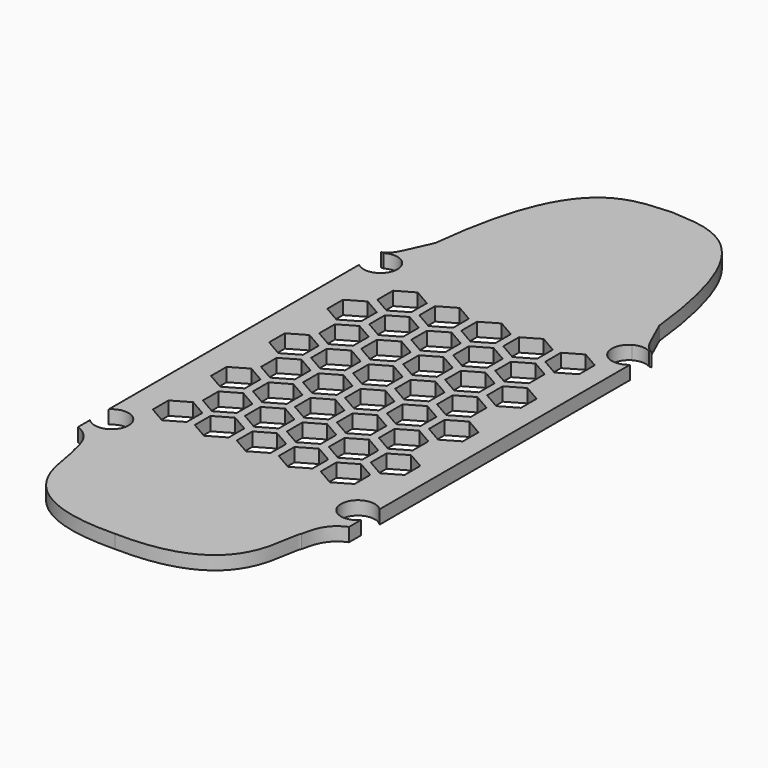
from build123d import *

# Parameters (mm, degrees)
F1_DEPTH = 2
F3_DEPTH = 2.001


with BuildPart() as f1:
    # F0 (on Top) → F1 (new body)
    with BuildSketch(Plane.XY):
        with BuildLine():
            add(Edge.make_bspline(
                [(20, -27.948286), (17.312383, -29.103272), (17.105319, -31.422403), (16.79297, -32.69393)],
                knots=[0, 0, 0, 0, 5.727668, 5.727668, 5.727668, 5.727668], degree=3))
            Line((20, -27.948286), (-20, -27.948286))
            add(Edge.make_bspline(
                [(-20, -27.948286), (-17.312383, -29.103272), (-17.105319, -31.422403), (-16.79297, -32.69393)],
                knots=[0, 0, 0, 0, 5.727668, 5.727668, 5.727668, 5.727668], degree=3))
            add(Edge.make_bspline(
                [(-16.79297, -32.69393), (-15.586394, -35.164598), (-17.737173, -46.525843), (0, -46.139471)],
                knots=[0, 0, 0, 0, 21.512471, 21.512471, 21.512471, 21.512471], degree=3))
            add(Edge.make_bspline(
                [(16.79297, -32.69393), (15.586394, -35.164598), (17.737173, -46.525843), (0, -46.139471)],
                knots=[0, 0, 0, 0, 21.512471, 21.512471, 21.512471, 21.512471], degree=3))
        make_face()
        with BuildLine():
            Line((19.606833, 27.948286), (20, 27.948286))
            add(Edge.make_bspline(
                [(16.526192, 33.676597), (18.398025, 29.781786), (18.398024, 28.673349), (20, 27.948286)],
                knots=[0, 0, 0, 0, 6.699319, 6.699319, 6.699319, 6.699319], degree=3))
            add(Edge.make_bspline(
                [(0, 56.710303), (5.756883, 56.292412), (13.975367, 57.12819), (16.526192, 33.676597)],
                knots=[0, 0, 0, 0, 28.349015, 28.349015, 28.349015, 28.349015], degree=3))
            add(Edge.make_bspline(
                [(0, 56.710303), (-5.756883, 56.292412), (-13.975367, 57.12819), (-16.526192, 33.676597)],
                knots=[0, 0, 0, 0, 28.349015, 28.349015, 28.349015, 28.349015], degree=3))
            add(Edge.make_bspline(
                [(-16.526192, 33.676597), (-18.398025, 29.781786), (-18.398024, 28.673349), (-20, 27.948286)],
                knots=[0, 0, 0, 0, 6.699319, 6.699319, 6.699319, 6.699319], degree=3))
            Line((-20, 27.948286), (-19.606833, 27.948286))
            ThreePointArc((-19.606833, 27.948286), (-18.339547, 28.293295), (-17.072262, 27.948286))
            Line((-17.072262, 27.948286), (17.072262, 27.948286))
            ThreePointArc((17.072262, 27.948286), (18.339547, 28.293295), (19.606833, 27.948286))
        make_face()
        with BuildLine():
            Line((20, -22.316148), (20, 23.924366))
            ThreePointArc((20, 23.924366), (16.318006, 24.322455), (17.072262, 27.948286))
            Line((17.072262, 27.948286), (-17.072262, 27.948286))
            ThreePointArc((-17.072262, 27.948286), (-16.1695, 27.034622), (-15.839547, 25.793295))
            ThreePointArc((-15.839547, 25.793295), (-17.315128, 23.51282), (-20, 23.924366))
            Line((-20, 23.924366), (-20, -22.316148))
            ThreePointArc((-20, -22.316148), (-17.261587, -21.720741), (-15.690904, -24.041596))
            ThreePointArc((-15.690904, -24.041596), (-17.261587, -26.362452), (-20, -25.767044))
            Line((-20, -25.767044), (-20, -27.948286))
            Line((-20, -27.948286), (20, -27.948286))
            Line((20, -27.948286), (20, -25.767044))
            ThreePointArc((20, -25.767044), (15.690904, -24.041596), (20, -22.316148))
        make_face()
    extrude(amount=-F1_DEPTH)

    # F2 (on face) → F3 (cut, through all)
    with BuildSketch(Plane(origin=(0, 0, -2), x_dir=(1, 0, 0), z_dir=(0, 0, -1))):
        Polygon((-11, 16.284945), (-11, 19.171697), (-13.5, 20.615072), (-16, 19.171697), (-16, 16.284945), (-13.5, 14.84157), align=None)
        Polygon((-7.9, 10.915588), (-7.9, 13.802339), (-10.4, 15.245715), (-12.9, 13.802339), (-12.9, 10.915588), (-10.4, 9.472212), align=None)
        Polygon((-11, 5.546945), (-11, 8.433697), (-13.5, 9.877072), (-16, 8.433697), (-16, 5.546945), (-13.5, 4.10357), align=None)
        Polygon((-10.4, -1.265788), (-7.9, 0.177588), (-7.9, 3.064339), (-10.4, 4.507715), (-12.9, 3.064339), (-12.9, 0.177588), align=None)
        Polygon((-11, -5.191055), (-11, -2.304303), (-13.5, -0.860928), (-16, -2.304303), (-16, -5.191055), (-13.5, -6.63443), align=None)
        Polygon((-10.4, -12.003788), (-7.9, -10.560412), (-7.9, -7.673661), (-10.4, -6.230285), (-12.9, -7.673661), (-12.9, -10.560412), align=None)
        Polygon((-11, -15.929055), (-11, -13.042303), (-13.5, -11.598928), (-16, -13.042303), (-16, -15.929055), (-13.5, -17.37243), align=None)
        Polygon((-10.4, -22.741788), (-7.9, -21.298412), (-7.9, -18.411661), (-10.4, -16.968285), (-12.9, -18.411661), (-12.9, -21.298412), align=None)
        Polygon((-4.8, 16.284945), (-4.8, 19.171697), (-7.3, 20.615072), (-9.8, 19.171697), (-9.8, 16.284945), (-7.3, 14.84157), align=None)
        Polygon((-4.2, 9.472212), (-1.7, 10.915588), (-1.7, 13.802339), (-4.2, 15.245715), (-6.7, 13.802339), (-6.7, 10.915588), align=None)
        Polygon((-4.8, 5.546945), (-4.8, 8.433697), (-7.3, 9.877072), (-9.8, 8.433697), (-9.8, 5.546945), (-7.3, 4.10357), align=None)
        Polygon((-4.2, -1.265788), (-1.7, 0.177588), (-1.7, 3.064339), (-4.2, 4.507715), (-6.7, 3.064339), (-6.7, 0.177588), align=None)
        Polygon((-4.8, -5.191055), (-4.8, -2.304303), (-7.3, -0.860928), (-9.8, -2.304303), (-9.8, -5.191055), (-7.3, -6.63443), align=None)
        Polygon((-4.2, -12.003788), (-1.7, -10.560412), (-1.7, -7.673661), (-4.2, -6.230285), (-6.7, -7.673661), (-6.7, -10.560412), align=None)
        Polygon((-4.8, -15.929055), (-4.8, -13.042303), (-7.3, -11.598928), (-9.8, -13.042303), (-9.8, -15.929055), (-7.3, -17.37243), align=None)
        Polygon((-4.2, -22.741788), (-1.7, -21.298412), (-1.7, -18.411661), (-4.2, -16.968285), (-6.7, -18.411661), (-6.7, -21.298412), align=None)
        Polygon((1.4, 16.284945), (1.4, 19.171697), (-1.1, 20.615072), (-3.6, 19.171697), (-3.6, 16.284945), (-1.1, 14.84157), align=None)
        Polygon((2, 9.472212), (4.5, 10.915588), (4.5, 13.802339), (2, 15.245715), (-0.5, 13.802339), (-0.5, 10.915588), align=None)
        Polygon((1.4, 5.546945), (1.4, 8.433697), (-1.1, 9.877072), (-3.6, 8.433697), (-3.6, 5.546945), (-1.1, 4.10357), align=None)
        Polygon((2, -1.265788), (4.5, 0.177588), (4.5, 3.064339), (2, 4.507715), (-0.5, 3.064339), (-0.5, 0.177588), align=None)
        Polygon((1.4, -5.191055), (1.4, -2.304303), (-1.1, -0.860928), (-3.6, -2.304303), (-3.6, -5.191055), (-1.1, -6.63443), align=None)
        Polygon((2, -12.003788), (4.5, -10.560412), (4.5, -7.673661), (2, -6.230285), (-0.5, -7.673661), (-0.5, -10.560412), align=None)
        Polygon((1.4, -15.929055), (1.4, -13.042303), (-1.1, -11.598928), (-3.6, -13.042303), (-3.6, -15.929055), (-1.1, -17.37243), align=None)
        Polygon((2, -22.741788), (4.5, -21.298412), (4.5, -18.411661), (2, -16.968285), (-0.5, -18.411661), (-0.5, -21.298412), align=None)
        Polygon((7.6, 16.284945), (7.6, 19.171697), (5.1, 20.615072), (2.6, 19.171697), (2.6, 16.284945), (5.1, 14.84157), align=None)
        Polygon((8.2, 9.472212), (10.7, 10.915588), (10.7, 13.802339), (8.2, 15.245715), (5.7, 13.802339), (5.7, 10.915588), align=None)
        Polygon((7.6, 5.546945), (7.6, 8.433697), (5.1, 9.877072), (2.6, 8.433697), (2.6, 5.546945), (5.1, 4.10357), align=None)
        Polygon((8.2, -1.265788), (10.7, 0.177588), (10.7, 3.064339), (8.2, 4.507715), (5.7, 3.064339), (5.7, 0.177588), align=None)
        Polygon((7.6, -5.191055), (7.6, -2.304303), (5.1, -0.860928), (2.6, -2.304303), (2.6, -5.191055), (5.1, -6.63443), align=None)
        Polygon((8.2, -12.003788), (10.7, -10.560412), (10.7, -7.673661), (8.2, -6.230285), (5.7, -7.673661), (5.7, -10.560412), align=None)
        Polygon((7.6, -15.929055), (7.6, -13.042303), (5.1, -11.598928), (2.6, -13.042303), (2.6, -15.929055), (5.1, -17.37243), align=None)
        Polygon((8.2, -22.741788), (10.7, -21.298412), (10.7, -18.411661), (8.2, -16.968285), (5.7, -18.411661), (5.7, -21.298412), align=None)
        Polygon((13.8, 16.284945), (13.8, 19.171697), (11.3, 20.615072), (8.8, 19.171697), (8.8, 16.284945), (11.3, 14.84157), align=None)
        Polygon((14.4, 9.472212), (16.9, 10.915588), (16.9, 13.802339), (14.4, 15.245715), (11.9, 13.802339), (11.9, 10.915588), align=None)
        Polygon((13.8, 5.546945), (13.8, 8.433697), (11.3, 9.877072), (8.8, 8.433697), (8.8, 5.546945), (11.3, 4.10357), align=None)
        Polygon((14.4, -1.265788), (16.9, 0.177588), (16.9, 3.064339), (14.4, 4.507715), (11.9, 3.064339), (11.9, 0.177588), align=None)
        Polygon((13.8, -5.191055), (13.8, -2.304303), (11.3, -0.860928), (8.8, -2.304303), (8.8, -5.191055), (11.3, -6.63443), align=None)
        Polygon((14.4, -12.003788), (16.9, -10.560412), (16.9, -7.673661), (14.4, -6.230285), (11.9, -7.673661), (11.9, -10.560412), align=None)
        Polygon((13.8, -15.929055), (13.8, -13.042303), (11.3, -11.598928), (8.8, -13.042303), (8.8, -15.929055), (11.3, -17.37243), align=None)
        Polygon((14.4, -22.741788), (16.9, -21.298412), (16.9, -18.411661), (14.4, -16.968285), (11.9, -18.411661), (11.9, -21.298412), align=None)
    extrude(amount=-F3_DEPTH, mode=Mode.SUBTRACT)


solid = f1.part
